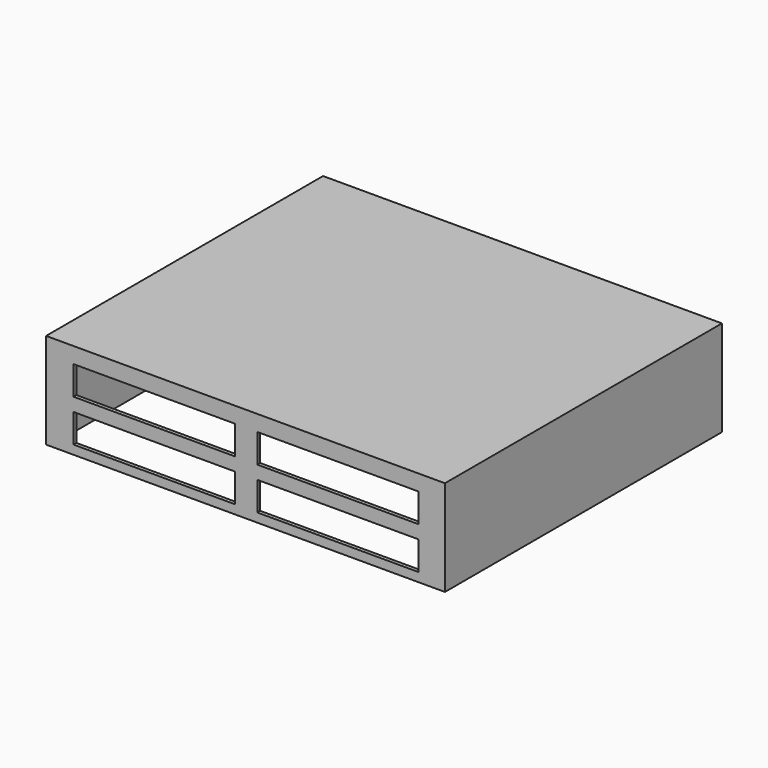
from build123d import *

# Parameters (mm, degrees)
F0_W     = 2083
F0_H     = 1808
F1_DEPTH = 500
F2_T     = -19
F3_W     = 843.087125
F3_H     = 150.265902
F4_DEPTH = 19
F5_W     = 843.087125
F5_H     = 150.265902
F6_DEPTH = 19


with BuildPart() as f1:
    # F0 (on Top) → F1 (new body)
    with BuildSketch(Plane.XY):
        Rectangle(F0_W, F0_H)
    extrude(amount=F1_DEPTH)

    # F2
    f2_openings = [f1.faces().sort_by_distance(p)[0] for p in [
        (0, 0, 0),
    ]]
    offset(amount=F2_T, openings=f2_openings)

    # F3 (on face) → F4 (cut, through all)
    with BuildSketch(Plane.XZ.offset(904)):
        with Locations((-477.065479, 341.865197)):
            Rectangle(F3_W, F3_H)
        with Locations((482.93452, 341.865197)):
            Rectangle(F3_W, F3_H)
        with Locations((-477.065479, 121.865197)):
            Rectangle(F3_W, F3_H)
        with Locations((482.93452, 121.865197)):
            Rectangle(F3_W, F3_H)
    extrude(amount=-F4_DEPTH, mode=Mode.SUBTRACT)

    # F5 (on face) → F6 (cut, through all)
    with BuildSketch(Plane(origin=(0, 904, 0), x_dir=(-1, 0, 0), z_dir=(0, 1, 0))):
        with Locations((-482.93452, 341.865197)):
            Rectangle(F5_W, F5_H)
        with Locations((477.065479, 341.865197)):
            Rectangle(F5_W, F5_H)
        with Locations((-482.93452, 121.865197)):
            Rectangle(F5_W, F5_H)
        with Locations((477.065479, 121.865197)):
            Rectangle(F5_W, F5_H)
    extrude(amount=-F6_DEPTH, mode=Mode.SUBTRACT)


solid = f1.part
